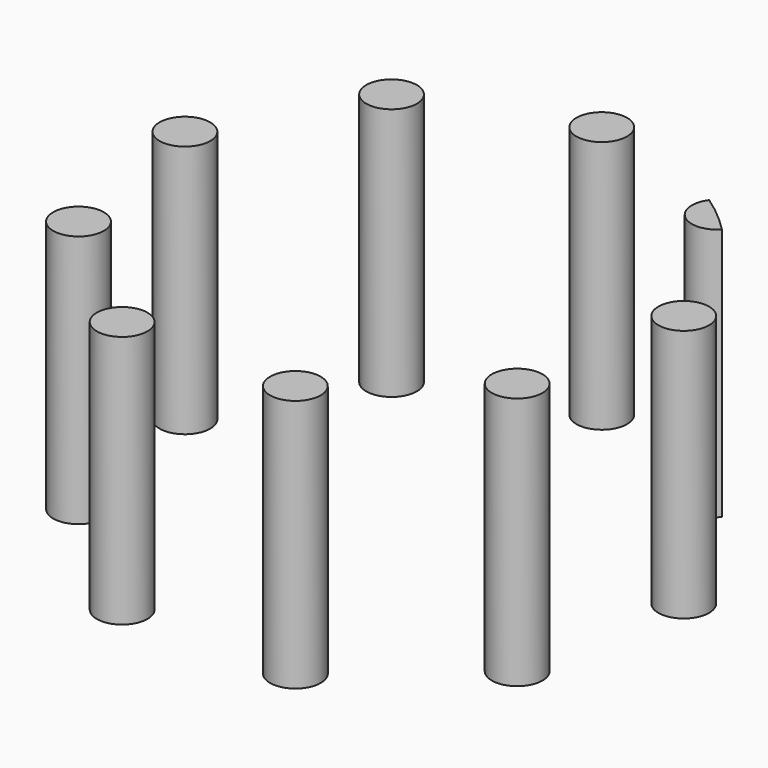
from build123d import *

# Parameters (mm, degrees)
F0_R     = 50
F1_DEPTH = 50
F2_R     = 5
F3_DEPTH = 50


with BuildPart() as f1:
    # F0 (on Top) → F1 (new body)
    with BuildSketch(Plane.XY):
        Circle(F0_R)
    extrude(amount=F1_DEPTH)


with BuildPart() as f3:
    # F2 (on Top) → F3 (new body, through all)
    with BuildSketch(Plane.XY):
        with Locations((0, 50)):
            Circle(F2_R)
    extrude(amount=F3_DEPTH)


with BuildPart() as f3b:
    # F2 (on Top) → F3, piece 2 (new body, through all)
    with BuildSketch(Plane.XY):
        with Locations((-32.1393804843, 38.3022221559)):
            Circle(F2_R)
    extrude(amount=F3_DEPTH)


with BuildPart() as f3c:
    # F2 (on Top) → F3, piece 3 (new body, through all)
    with BuildSketch(Plane.XY):
        with Locations((-49.2403876506, 8.6824088833)):
            Circle(F2_R)
    extrude(amount=F3_DEPTH)


with BuildPart() as f3d:
    # F2 (on Top) → F3, piece 4 (new body, through all)
    with BuildSketch(Plane.XY):
        with Locations((-43.3012701892, -25)):
            Circle(F2_R)
    extrude(amount=F3_DEPTH)


with BuildPart() as f3e:
    # F2 (on Top) → F3, piece 5 (new body, through all)
    with BuildSketch(Plane.XY):
        with Locations((-17.1010071663, -46.9846310393)):
            Circle(F2_R)
    extrude(amount=F3_DEPTH)


with BuildPart() as f3f:
    # F2 (on Top) → F3, piece 6 (new body, through all)
    with BuildSketch(Plane.XY):
        with Locations((17.1010071663, -46.9846310393)):
            Circle(F2_R)
    extrude(amount=F3_DEPTH)


with BuildPart() as f3g:
    # F2 (on Top) → F3, piece 7 (new body, through all)
    with BuildSketch(Plane.XY):
        with Locations((43.3012701892, -25)):
            Circle(F2_R)
    extrude(amount=F3_DEPTH)


with BuildPart() as f3h:
    # F2 (on Top) → F3, piece 8 (new body, through all)
    with BuildSketch(Plane.XY):
        with Locations((49.2403876506, 8.6824088833)):
            Circle(F2_R)
    extrude(amount=F3_DEPTH)


with BuildPart() as f3i:
    # F2 (on Top) → F3, piece 9 (new body, through all)
    with BuildSketch(Plane.XY):
        with Locations((32.1393804843, 38.3022221559)):
            Circle(F2_R)
    extrude(amount=F3_DEPTH)

    # F4: intersect F1
    add(f1.part, mode=Mode.INTERSECT)


solid = Compound([f3.part, f3b.part, f3c.part, f3d.part, f3e.part, f3f.part, f3g.part, f3h.part, f3i.part])
